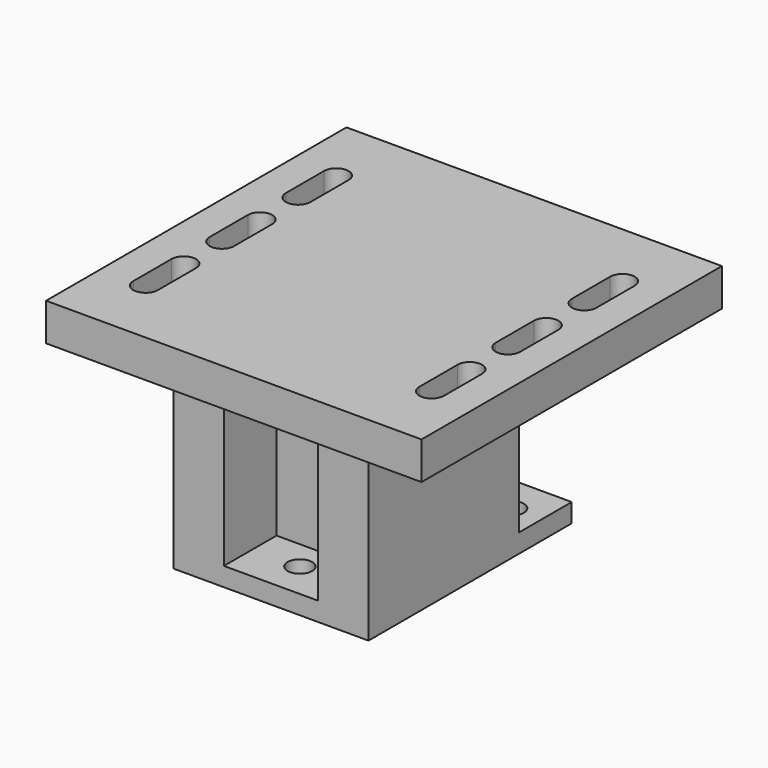
from build123d import *

# Parameters (mm, degrees)
F0_W           = 52
F0_H           = 67.66
F2_DEPTH       = 5
F1_R           = 3.265
F3_DEPTH       = 5
F4_W           = 52
F4_H           = 67.66
F5_DEPTH       = 30
F7_W           = 52
F7_H           = 67.66
F8_DEPTH       = 25
F9_W           = 100
F9_H           = 100
F10_DEPTH      = 10
F12_DEPTH      = 10
F6_W           = 17.5
F6_H           = 17.5
F6_W_2         = 25
F13_DEPTH      = 30
F13_DEPTH_BACK = 10


with BuildPart() as f2:
    # F0 (on Top) → F2 (new body)
    with BuildSketch(Plane.XY):
        with Locations((0, -3.83)):
            Rectangle(F0_W, F0_H)
    extrude(amount=F2_DEPTH)

    # F1 (on face) → F3 (cut)
    with BuildSketch(Plane.XY):
        with Locations((-18, 20)):
            Circle(F1_R)
        with Locations((18, 20)):
            Circle(F1_R)
        with Locations((0, -28)):
            Circle(F1_R)
    extrude(amount=F3_DEPTH, mode=Mode.SUBTRACT)

    # F4 (on face) → F5 (join)
    with BuildSketch(Plane.XY.offset(5)):
        with Locations((0, -3.83)):
            Rectangle(F4_W, F4_H)
    extrude(amount=F5_DEPTH)

    # F7 (on face) → F8 (join)
    with BuildSketch(Plane.XY.offset(35)):
        with Locations((0, -3.83)):
            Rectangle(F7_W, F7_H)
    extrude(amount=F8_DEPTH)

    # F9 (on face) → F10 (join)
    with BuildSketch(Plane.XY.offset(60)):
        Rectangle(F9_W, F9_H)
    extrude(amount=-F10_DEPTH)

    # F11 (on face) → F12 (cut)
    with BuildSketch(Plane.XY.offset(60)):
        with BuildLine():
            Line((34.835, -6.35), (41.365, -6.35))
            ThreePointArc((41.365, -6.35), (38.1, -3.085), (34.835, -6.35))
        make_face()
        with BuildLine():
            ThreePointArc((34.835, -6.35), (38.1, -9.615), (41.365, -6.35))
            Line((41.365, -6.35), (34.835, -6.35))
        make_face()
        with BuildLine():
            ThreePointArc((34.835, -6.35), (38.1, -3.085), (41.365, -6.35))
            Line((41.365, -6.35), (41.365, 6.35))
            ThreePointArc((41.365, 6.35), (38.1, 3.085), (34.835, 6.35))
            Line((34.835, 6.35), (34.835, -6.35))
        make_face()
        with BuildLine():
            Line((34.835, 6.35), (41.365, 6.35))
            ThreePointArc((41.365, 6.35), (38.1, 9.615), (34.835, 6.35))
        make_face()
        with BuildLine():
            ThreePointArc((34.835, 6.35), (38.1, 3.085), (41.365, 6.35))
            Line((41.365, 6.35), (34.835, 6.35))
        make_face()
        with BuildLine():
            Line((34.835, -31.75), (41.365, -31.75))
            ThreePointArc((41.365, -31.75), (38.1, -28.485), (34.835, -31.75))
        make_face()
        with BuildLine():
            ThreePointArc((34.835, -31.75), (38.1, -35.015), (41.365, -31.75))
            Line((41.365, -31.75), (34.835, -31.75))
        make_face()
        with BuildLine():
            ThreePointArc((34.835, -31.75), (38.1, -28.485), (41.365, -31.75))
            Line((41.365, -31.75), (41.365, -19.05))
            ThreePointArc((41.365, -19.05), (38.1, -22.315), (34.835, -19.05))
            Line((34.835, -19.05), (34.835, -31.75))
        make_face()
        with BuildLine():
            Line((34.835, -19.05), (41.365, -19.05))
            ThreePointArc((41.365, -19.05), (38.1, -15.785), (34.835, -19.05))
        make_face()
        with BuildLine():
            ThreePointArc((34.835, -19.05), (38.1, -22.315), (41.365, -19.05))
            Line((41.365, -19.05), (34.835, -19.05))
        make_face()
        with BuildLine():
            ThreePointArc((34.835, 31.75), (38.1, 28.485), (41.365, 31.75))
            ThreePointArc((41.365, 31.75), (38.1, 35.015), (34.835, 31.75))
        make_face()
        with BuildLine():
            Line((41.365, 19.05), (41.365, 31.75))
            ThreePointArc((41.365, 31.75), (38.1, 28.485), (34.835, 31.75))
            Line((34.835, 31.75), (34.835, 19.05))
            ThreePointArc((34.835, 19.05), (38.1, 22.315), (41.365, 19.05))
        make_face()
        with BuildLine():
            ThreePointArc((34.835, 19.05), (38.1, 15.785), (41.365, 19.05))
            ThreePointArc((41.365, 19.05), (38.1, 22.315), (34.835, 19.05))
        make_face()
        with BuildLine():
            ThreePointArc((-41.365, -31.75), (-38.1, -35.015), (-34.835, -31.75))
            ThreePointArc((-34.835, -31.75), (-38.1, -28.485), (-41.365, -31.75))
        make_face()
        with BuildLine():
            ThreePointArc((-41.365, -31.75), (-38.1, -28.485), (-34.835, -31.75))
            Line((-34.835, -31.75), (-34.835, -19.05))
            ThreePointArc((-34.835, -19.05), (-38.1, -22.315), (-41.365, -19.05))
            Line((-41.365, -19.05), (-41.365, -31.75))
        make_face()
        with BuildLine():
            ThreePointArc((-41.365, -19.05), (-38.1, -22.315), (-34.835, -19.05))
            ThreePointArc((-34.835, -19.05), (-38.1, -15.785), (-41.365, -19.05))
        make_face()
        with BuildLine():
            ThreePointArc((-41.365, -6.35), (-38.1, -9.615), (-34.835, -6.35))
            ThreePointArc((-34.835, -6.35), (-38.1, -3.085), (-41.365, -6.35))
        make_face()
        with BuildLine():
            ThreePointArc((-41.365, -6.35), (-38.1, -3.085), (-34.835, -6.35))
            Line((-34.835, -6.35), (-34.835, 6.35))
            ThreePointArc((-34.835, 6.35), (-38.1, 3.085), (-41.365, 6.35))
            Line((-41.365, 6.35), (-41.365, -6.35))
        make_face()
        with BuildLine():
            ThreePointArc((-41.365, 6.35), (-38.1, 3.085), (-34.835, 6.35))
            ThreePointArc((-34.835, 6.35), (-38.1, 9.615), (-41.365, 6.35))
        make_face()
        with BuildLine():
            ThreePointArc((-41.365, 19.05), (-38.1, 15.785), (-34.835, 19.05))
            ThreePointArc((-34.835, 19.05), (-38.1, 22.315), (-41.365, 19.05))
        make_face()
        with BuildLine():
            ThreePointArc((-41.365, 19.05), (-38.1, 22.315), (-34.835, 19.05))
            Line((-34.835, 19.05), (-34.835, 31.75))
            ThreePointArc((-34.835, 31.75), (-38.1, 28.485), (-41.365, 31.75))
            Line((-41.365, 31.75), (-41.365, 19.05))
        make_face()
        with BuildLine():
            ThreePointArc((-41.365, 31.75), (-38.1, 28.485), (-34.835, 31.75))
            ThreePointArc((-34.835, 31.75), (-38.1, 35.015), (-41.365, 31.75))
        make_face()
    extrude(amount=-F12_DEPTH, mode=Mode.SUBTRACT)

    # F6 (on face) → F13 (cut, two sides)
    with BuildSketch(Plane.XY.offset(35)) as f13_sk:
        with Locations((-17.25, 21.25)):
            Rectangle(F6_W, F6_H)
        with Locations((17.25, 21.25)):
            Rectangle(F6_W, F6_H)
        with Locations((0, -28.91)):
            Rectangle(F6_W_2, F6_H)
    extrude(amount=-F13_DEPTH, mode=Mode.SUBTRACT)
    extrude(f13_sk.sketch, amount=F13_DEPTH_BACK, mode=Mode.SUBTRACT)


solid = f2.part
